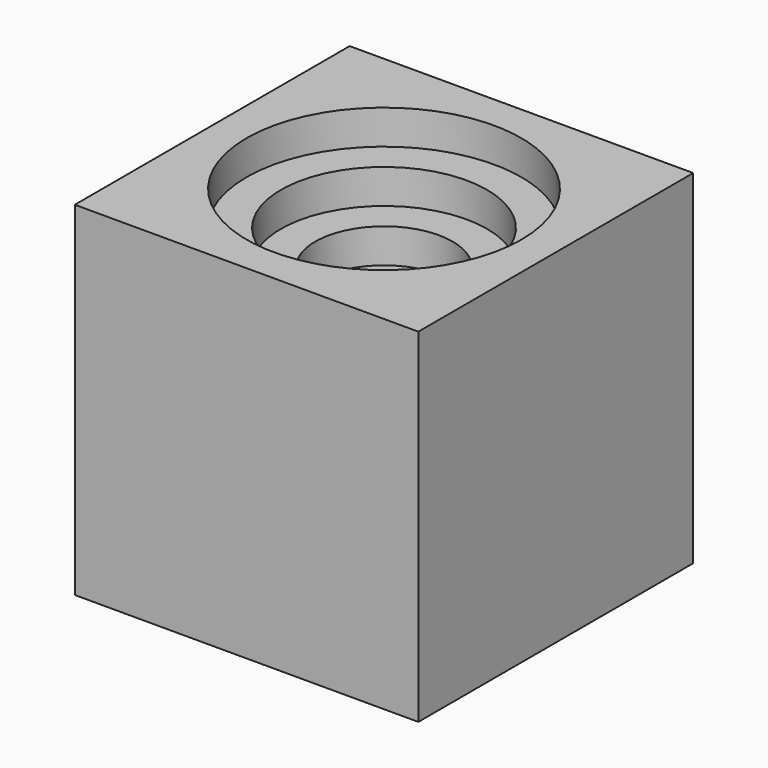
from build123d import *

# Parameters (mm, degrees)
F0_W     = 127
F0_H     = 127
F1_DEPTH = 63.5
F2_R     = 50.8
F3_DEPTH = 12.7
F4_R     = 38.1
F5_DEPTH = 12.7
F6_R     = 25.4
F7_DEPTH = 12.7
F8_R     = 12.7
F9_DEPTH = 12.7


with BuildPart() as f1:
    # F0 (on Front) → F1 (new body, symmetric)
    with BuildSketch(Plane.XZ):
        Rectangle(F0_W, F0_H)
    extrude(amount=F1_DEPTH, both=True)

    # F2 (on face) → F3 (cut)
    with BuildSketch(Plane.XY.offset(63.5)):
        Circle(F2_R)
    extrude(amount=-F3_DEPTH, mode=Mode.SUBTRACT)

    # F4 (on face) → F5 (cut)
    with BuildSketch(Plane.XY.offset(50.8)):
        Circle(F4_R)
    extrude(amount=-F5_DEPTH, mode=Mode.SUBTRACT)

    # F6 (on face) → F7 (cut)
    with BuildSketch(Plane.XY.offset(38.1)):
        Circle(F6_R)
    extrude(amount=-F7_DEPTH, mode=Mode.SUBTRACT)

    # F8 (on face) → F9 (cut)
    with BuildSketch(Plane.XY.offset(25.4)):
        Circle(F8_R)
    extrude(amount=-F9_DEPTH, mode=Mode.SUBTRACT)


solid = f1.part
